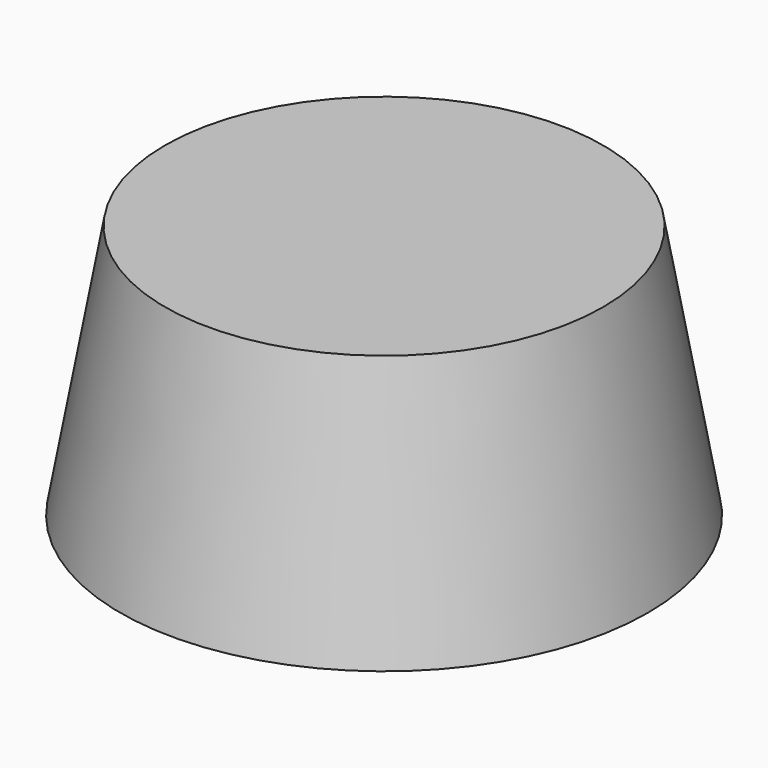
from build123d import *

# Parameters (mm, degrees)
F0_R     = 46.6705326384
F1_DEPTH = 45
F1_TAPER = 10
F4_DEPTH = 25.4


with BuildPart() as f1:
    # F0 (on Top) → F1 (new body)
    with BuildSketch(Plane.XY):
        Circle(F0_R)
    extrude(amount=F1_DEPTH, taper=F1_TAPER)

    # F2 (on Top) → F4 (join)
    with BuildSketch(Plane.XY):
        Polygon((0, 50.7014376588), (-3.15, 46.5641076018), (3.15, 46.5641076018), align=None)
    extrude(amount=F4_DEPTH)


solid = f1.part
